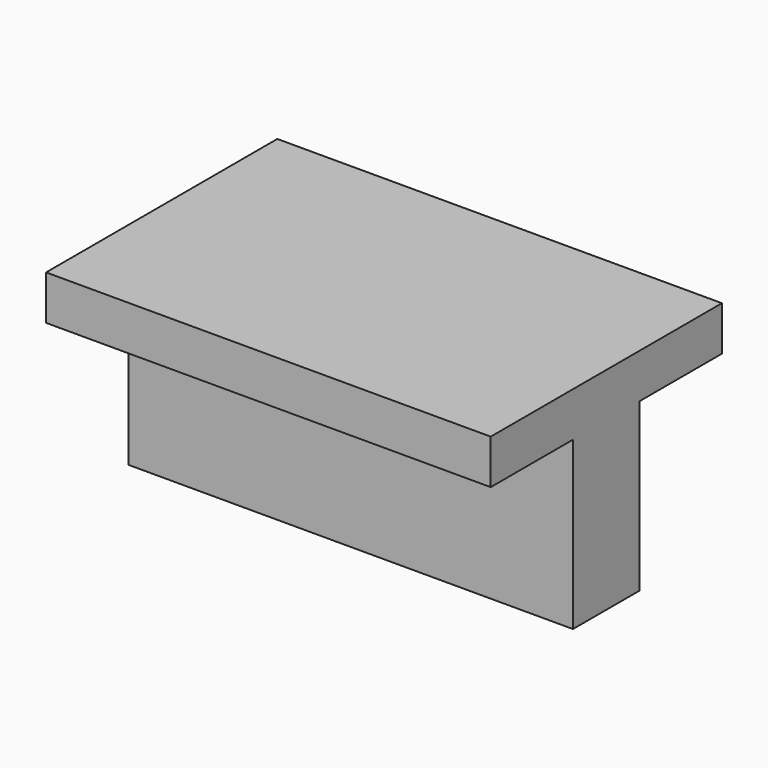
from build123d import *

# Parameters (mm, degrees)
F0_W     = 40
F0_H     = 7.5
F1_DEPTH = 15
F2_W     = 40
F2_H     = 9.25
F2_H_2   = 7.5
F3_DEPTH = 4


with BuildPart() as f1:
    # F0 (on Top) → F1 (new body)
    with BuildSketch(Plane.XY):
        Rectangle(F0_W, F0_H)
    extrude(amount=F1_DEPTH)

    # F2 (on face) → F3 (join)
    with BuildSketch(Plane.XY.offset(15)):
        with Locations((0, 8.375)):
            Rectangle(F2_W, F2_H)
        Rectangle(F2_W, F2_H_2)
        with Locations((0, -8.375)):
            Rectangle(F2_W, F2_H)
    extrude(amount=F3_DEPTH)


solid = f1.part
